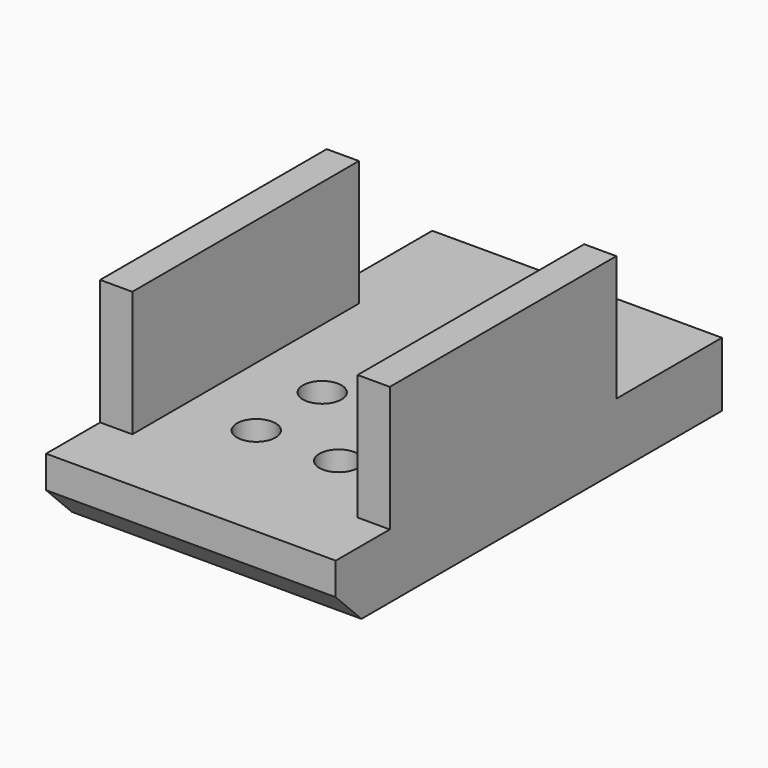
from build123d import *

# Parameters (mm, degrees)
SKETCH014_W     = 9
SKETCH014_H     = 15
PAD004_DEPTH    = 2
SKETCH015_R     = 1.65
POCKET009_DEPTH = 1
SKETCH016_R     = 0.95
POCKET010_DEPTH = 5
SKETCH017_W     = 1
SKETCH017_H     = 8.8
PAD005_DEPTH    = 3.9
SKETCH018_R     = 0.6
POCKET011_DEPTH = 5
CHAMFER_SIZE    = 1


with BuildPart() as part:
    # Sketch014 → Pad004 (new body)
    with BuildSketch(Plane.XY):
        with Locations((0, -5.5)):
            Rectangle(SKETCH014_W, SKETCH014_H)
    extrude(amount=PAD004_DEPTH)

    # Sketch015 (on Face18 of Pad003) → Pocket009 (cut)
    with BuildSketch(Plane(origin=(0, 0, 0), x_dir=(1, 0, 0), z_dir=(0, 0, -1))):
        Circle(SKETCH015_R)
    extrude(amount=-POCKET009_DEPTH, mode=Mode.SUBTRACT)

    # Sketch016 (on Face18 of Pad003) → Pocket010 (cut)
    with BuildSketch(Plane(origin=(0, 0, 0.5), x_dir=(1, 0, 0), z_dir=(0, 0, -1))):
        Circle(SKETCH016_R)
    extrude(amount=-POCKET010_DEPTH, mode=Mode.SUBTRACT)

    # Sketch017 → Pad005 (join)
    with BuildSketch(Plane.XY.offset(2)):
        with Locations((-4, -6.5)):
            Rectangle(SKETCH017_W, SKETCH017_H)
        with Locations((4, -6.5)):
            Rectangle(SKETCH017_W, SKETCH017_H)
    extrude(amount=PAD005_DEPTH)

    # Sketch018 → Pocket011 (cut)
    with BuildSketch(Plane(origin=(0, -7.58, 0), x_dir=(1, 0, 0), z_dir=(0, 0, 1))):
        with Locations((-1.28, 1.28)):
            Circle(SKETCH018_R)
        with Locations((1.291315, 1.272746)):
            Circle(SKETCH018_R)
        with Locations((-1.28, -1.28)):
            Circle(SKETCH018_R)
        with Locations((1.28, -1.28)):
            Circle(SKETCH018_R)
    extrude(amount=POCKET011_DEPTH, mode=Mode.SUBTRACT)

    # Chamfer
    chamfer_edges = [part.edges().sort_by_distance(p)[0] for p in [
        (0, -13, 0),
    ]]
    chamfer(chamfer_edges, length=CHAMFER_SIZE)


with BuildPart() as part_1:
    # Body002 placement: moved
    add(part.part.moved(Location((0, 0, -9.5))))


solid = part_1.part
